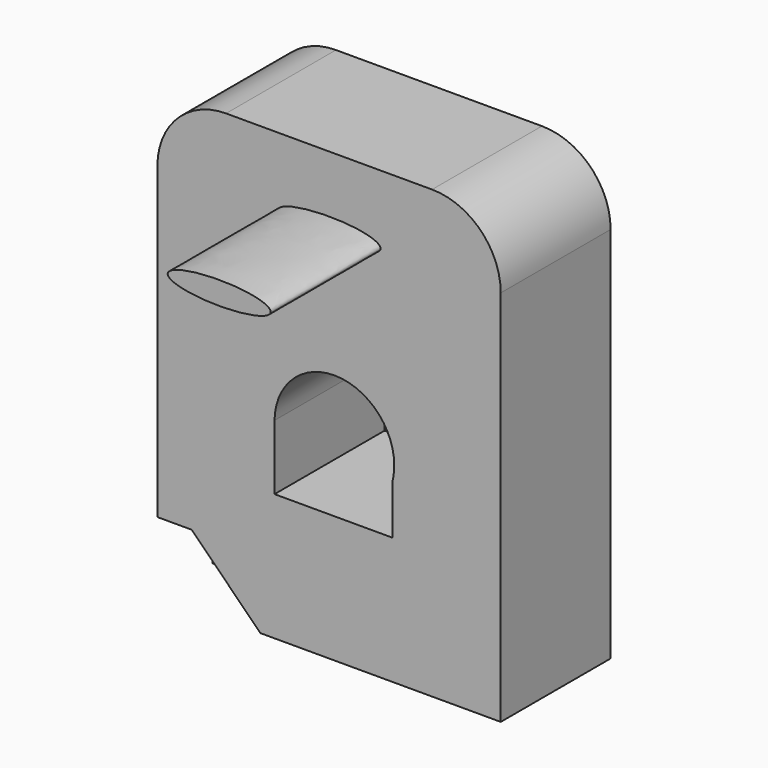
from build123d import *

# Parameters (mm, degrees)
F0_W          = 50
F0_H          = 65
F1_DEPTH      = 20
F3_DEPTH      = 25.4
F3_DEPTH_BACK = 25.4
F4_R          = 10
F6_DEPTH      = 10
F8_DEPTH      = 20
F10_DEPTH     = 65.0010001


with BuildPart() as f1:
    # F0 (on Front) → F1 (new body)
    with BuildSketch(Plane.XZ):
        Rectangle(F0_W, F0_H)
    extrude(amount=F1_DEPTH)

    # F2 (on face) → F3 (cut, two sides)
    with BuildSketch(Plane.XZ.offset(20)) as f3_sk:
        with BuildLine():
            Line((-7.9418579116, -14.0116587281), (9.2289298773, -14.0116587281))
            Line((9.2289298773, -14.0116587281), (9.2289298773, -6.7959995619))
            ThreePointArc((9.2289298773, -6.7959995619), (-0.2431108887, -13.3252146406), (-7.9418579116, -4.7765597701))
            Line((-7.9418579116, -4.7765597701), (-7.9418579116, -14.0116587281))
        make_face()
        with BuildLine():
            Line((9.2289298773, -4.5578256249), (9.2289298773, -6.7959995619))
            ThreePointArc((9.2289298773, -6.7959995619), (9.4266149422, -5.7397445697), (9.4928454099, -4.6671926975))
            ThreePointArc((9.4928454099, -4.6671926975), (0.8298353341, 4.0503304752), (-7.9418579116, -4.5578256249))
            Line((-7.9418579116, -4.5578256249), (9.2289298773, -4.5578256249))
        make_face()
        with BuildLine():
            ThreePointArc((-7.9418579116, -4.7765597701), (-0.2431108887, -13.3252146406), (9.2289298773, -6.7959995619))
            Line((9.2289298773, -6.7959995619), (9.2289298773, -4.5578256249))
            Line((9.2289298773, -4.5578256249), (-7.9418579116, -4.5578256249))
            Line((-7.9418579116, -4.5578256249), (-7.9418579116, -4.7765597701))
        make_face()
    extrude(amount=F3_DEPTH, mode=Mode.SUBTRACT)
    extrude(f3_sk.sketch, amount=-F3_DEPTH_BACK, mode=Mode.SUBTRACT)

    # F4
    f4_edges = [f1.edges().sort_by_distance(p)[0] for p in [
        (25, -10, 32.5),
        (-25, -10, 32.5),
    ]]
    fillet(f4_edges, radius=F4_R)

    # F5 (on face) → F6 (cut)
    with BuildSketch(Plane.XZ.offset(20)):
        Polygon((-20, -22.5), (-25, -22.5), (-25, -32.5), (-10, -32.5), align=None)
    extrude(amount=-F6_DEPTH, mode=Mode.SUBTRACT)

    # F7 (on face) → F8 (join)
    with BuildSketch(Plane.XZ.offset(20)):
        with BuildLine():
            add(Edge.make_bspline(
                [(-7.5, 22.5), (-7.5, 19.5948551827), (3.75, 21.0474275913), (15, 22.5), (3.75, 23.9525724087), (-7.5, 25.4051448173), (-7.5, 22.5)],
                knots=[0, 0, 0, 2.0943951024, 2.0943951024, 4.1887902048, 4.1887902048, 6.2831853072, 6.2831853072, 6.2831853072], degree=2, weights=[1, 0.5, 1, 0.5, 1, 0.5, 1]))
        make_face()
    extrude(amount=F8_DEPTH)

    # F9 (on face) → F10 (cut, through all)
    with BuildSketch(Plane(origin=(0, 0, -32.5), x_dir=(1, 0, 0), z_dir=(0, 0, -1))):
        with BuildLine():
            ThreePointArc((25, 15), (28.5355339059, 16.4644660941), (30, 20))
            ThreePointArc((30, 20), (25, 25), (20, 20))
            Line((20, 20), (25, 20))
            Line((25, 20), (25, 15))
        make_face()
    extrude(amount=-F10_DEPTH, mode=Mode.SUBTRACT)


solid = f1.part
